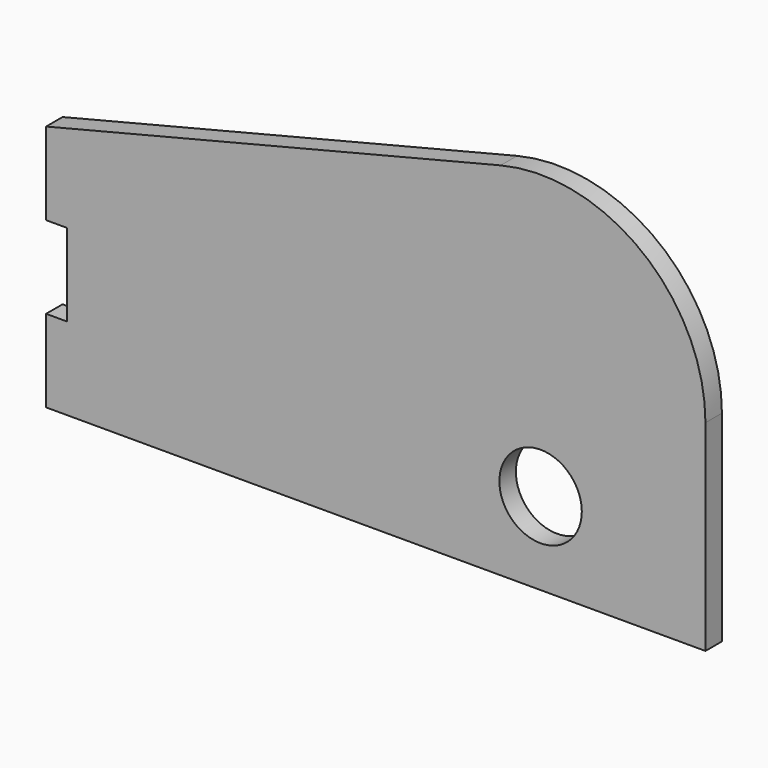
from build123d import *

# Parameters (mm, degrees)
F0_R     = 6.35
F1_DEPTH = 3.175
F2_W     = 3.2258
F2_H     = 12.7
F3_DEPTH = 3.175


with BuildPart() as f1:
    # F0 (on Front) → F1 (new body)
    with BuildSketch(Plane.XZ):
        with BuildLine():
            Line((0, 38.1), (0, 0))
            Line((0, 0), (101.6, 0))
            Line((101.6, 0), (101.6, 30.968279))
            ThreePointArc((101.6, 30.968279), (91.83147, 50.988697), (70.039595, 55.609899))
            Line((70.039595, 55.609899), (0, 38.1))
        make_face()
        with Locations((76.2, 12.7)):
            Circle(F0_R, mode=Mode.SUBTRACT)
    extrude(amount=F1_DEPTH)

    # F2 (on face) → F3 (cut)
    with BuildSketch(Plane.XZ.offset(3.175)):
        with Locations((1.6129, 19.05)):
            Rectangle(F2_W, F2_H)
    extrude(amount=-F3_DEPTH, mode=Mode.SUBTRACT)


solid = f1.part
